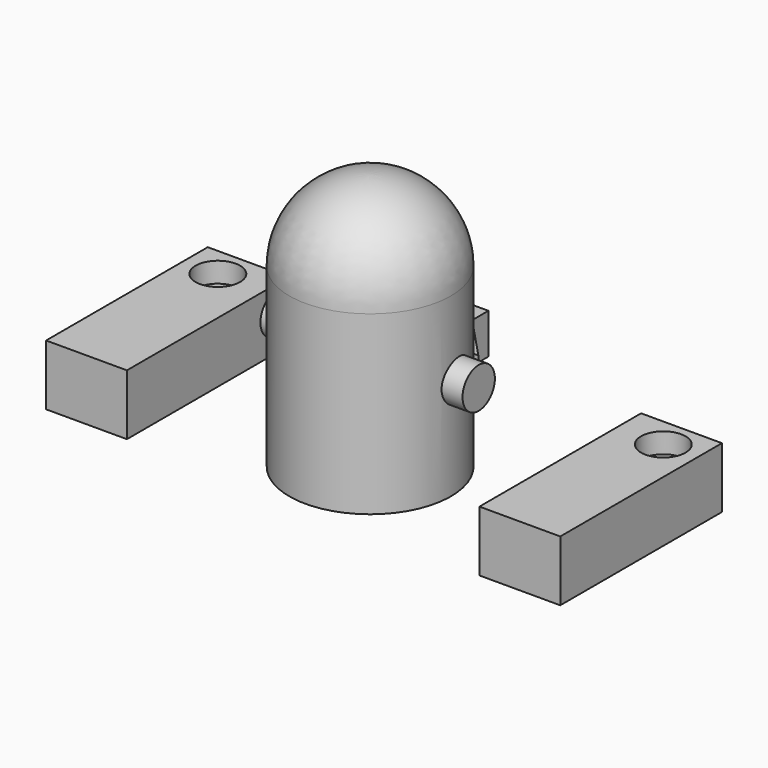
from build123d import *

# Parameters (mm, degrees)
F2_R      = 5
F3_DEPTH  = 25
F4_W      = 20
F4_H      = 50
F5_DEPTH  = 15
F6_R      = 5.5
F8_DEPTH  = 5
F7_R      = 5.5
F9_DEPTH  = 5
F10_W     = 9.987524
F10_H     = 9.99
F11_DEPTH = 5
F13_DEPTH = 9.99


with BuildPart() as f1:
    # F0 (on Right) → F1 (revolve)
    with BuildSketch(Plane.YZ):
        with BuildLine():
            Line((16.889218, 1.752096), (16.889218, 45.405496))
            ThreePointArc((16.889218, 45.405496), (11.033181, 59.543221), (-3.104544, 65.399258))
            Line((-3.104544, 65.399258), (-3.104544, 45.405496))
            Line((-3.104544, 45.405496), (-3.104544, 1.752096))
            Line((-3.104544, 1.752096), (16.889218, 1.752096))
        make_face()
    revolve(axis=Axis((0, -3.104544, 55.402377), (0, 0, 1)))

    # F2 (on Right) → F3 (join, symmetric)
    with BuildSketch(Plane.YZ):
        with Locations((-0.769231, 26.057694)):
            Circle(F2_R)
    extrude(amount=F3_DEPTH, both=True)

    # F10 (on face) → F11 (cut)
    with BuildSketch(Plane(origin=(0, 0, 1.752096), x_dir=(1, 0, 0), z_dir=(0, 0, -1))):
        with Locations((0, 10.603306)):
            Rectangle(F10_W, F10_H)
    extrude(amount=-F11_DEPTH, mode=Mode.SUBTRACT)


with BuildPart() as f5:
    # F4 (on Top) → F5 (new body)
    with BuildSketch(Plane.XY):
        with Locations((-55.93658, 4.10005)):
            Rectangle(F4_W, F4_H)
        with Locations((52.86296, 2.125465)):
            Rectangle(F4_W, F4_H)
    extrude(amount=F5_DEPTH)

    # F6 (on face) → F8 (cut)
    with BuildSketch(Plane.XY.offset(15)):
        with Locations((-57.43658, 21.60005)):
            Circle(F6_R)
    extrude(amount=-F8_DEPTH, mode=Mode.SUBTRACT)

    # F7 (on face) → F9 (cut)
    with BuildSketch(Plane.XY.offset(15)):
        with Locations((54.36296, 19.625465)):
            Circle(F7_R)
    extrude(amount=-F9_DEPTH, mode=Mode.SUBTRACT)


with BuildPart() as f13:
    # F12 (on Top) → F13 (new body)
    with BuildSketch(Plane.XY):
        Polygon((-12.983079, 49.70385), (-22.973079, 49.70385), (-22.973079, 44.70385), (-12.790994, 33.877421), (-2.800994, 33.877421), (-12.983079, 44.70385), align=None)
    extrude(amount=F13_DEPTH)


solid = Compound([f1.part, f5.part, f13.part])
